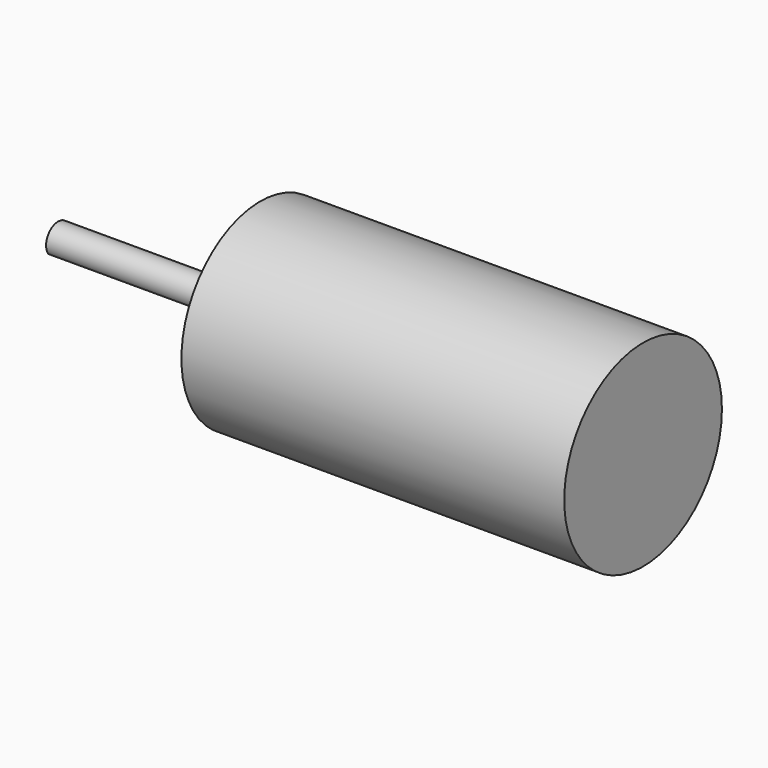
from build123d import *

# Parameters (mm, degrees)
SKETCH058_R  = 12.2936
PAD026_DEPTH = 47.752
PAD027_DEPTH = 25.2222
SKETCH062_R  = 3.4925
PAD029_DEPTH = 2.54


with BuildPart() as part:
    # Sketch058 → Pad026 (new body)
    with BuildSketch(Plane.YZ):
        Circle(SKETCH058_R)
    extrude(amount=PAD026_DEPTH)

    # Sketch059 (on Face2 of Pad026) → Pad027 (join)
    with BuildSketch(Plane(origin=(0, 0, 0), x_dir=(0, 1, 0), z_dir=(-1, 0, 0))):
        with BuildLine():
            ThreePointArc((-1.524, 1.0783040434), (0, -1.8669), (1.524, 1.0783040434))
            Line((-1.524, 1.0783040434), (1.524, 1.0783040434))
        make_face()
    extrude(amount=PAD027_DEPTH)

    # Sketch062 (on Face2 of Pad027) → Pad029 (join)
    with BuildSketch(Plane(origin=(0, 0, 0), x_dir=(0, 1, 0), z_dir=(-1, 0, 0))):
        Circle(SKETCH062_R)
    extrude(amount=PAD029_DEPTH)


with BuildPart() as part_1:
    # Body021 placement: moved
    add(part.part.moved(Location((-66.548, -34.036, 12.446))))


solid = part_1.part
